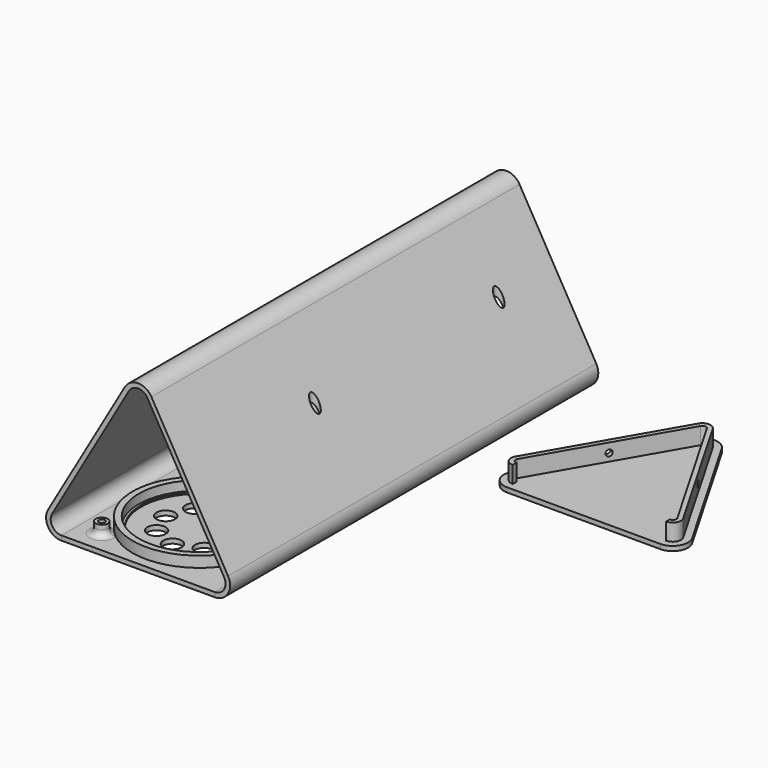
from build123d import *

# Parameters (mm, degrees)
PAD_DEPTH             = 150
SKETCH010_R           = 1.5
POCKET002_DEPTH       = 0.001
POCKET002_DEPTH_BACK  = 54.30227
SKETCH003_W           = 50
SKETCH003_H           = 80
SKETCH003_W_2         = 25
SKETCH003_H_2         = 72
PAD001_DEPTH          = 1.5
SKETCH001_R           = 2
SKETCH001_R_2         = 1
PAD002_DEPTH          = 6
FILLET_R              = 2
SKETCH007_W           = 50
SKETCH007_H           = 50
PAD003_DEPTH          = 1.5
SKETCH006_R           = 21.8
SKETCH006_R_2         = 19.8
PAD004_DEPTH          = 5
SKETCH005_R           = 3
POCKET001_DEPTH       = 141.775469
POCKET001_DEPTH_BACK  = 146.775469
POLARPATTERN_COUNT    = 8
SKETCH004_R           = 20
SKETCH004_R_2         = 19
PAD005_DEPTH          = 2
SKETCH015_R           = 2
SKETCH015_R_2         = 1
PAD009_DEPTH          = 5
FILLET001_R           = 2
SKETCH011_W           = 50
SKETCH011_H           = 20
SKETCH011_R           = 3
SKETCH011_R_2         = 3.5
PAD006_DEPTH          = 1.5
PAD007_DEPTH          = 7
PAD008_DEPTH          = 1.5
SKETCH014_R           = 1
POCKET_DEPTH          = 180.556145
POLARPATTERN001_COUNT = 3


with BuildPart() as housing:
    # Sketch → Pad (new body)
    with BuildSketch(Plane.XZ):
        with BuildLine():
            Line((29.330127, 7.5), (4.330127, 50.80127))
            ThreePointArc((4.330127, 50.80127), (0, 53.30127), (-4.330127, 50.80127))
            Line((-4.330127, 50.80127), (-29.330127, 7.5))
            ThreePointArc((-29.330127, 7.5), (-29.330127, 2.5), (-25, 0))
            Line((-25, 1.5), (-25, 0))
            ThreePointArc((-28.031089, 6.75), (-28.031089, 3.25), (-25, 1.5))
            Line((-3.031089, 50.05127), (-28.031089, 6.75))
            ThreePointArc((3.031089, 50.05127), (0, 51.80127), (-3.031089, 50.05127))
            Line((28.031089, 6.75), (3.031089, 50.05127))
            ThreePointArc((25, 1.5), (28.031089, 3.25), (28.031089, 6.75))
            Line((25, 1.5), (25, 0))
            ThreePointArc((25, 0), (29.330127, 2.5), (29.330127, 7.5))
        make_face()
    extrude(amount=PAD_DEPTH)

    # Sketch010 → Pocket002 (cut, two sides)
    with BuildSketch(Plane(origin=(0, -60, -1), x_dir=(1, 0, 0), z_dir=(0, 0, 1))) as pocket002_sk:
        with Locations((-15.59, 37.44)):
            Circle(SKETCH010_R)
        with Locations((-15.59, -37.44)):
            Circle(SKETCH010_R)
        with Locations((15.59, -37.44)):
            Circle(SKETCH010_R)
        with Locations((15.59, 37.44)):
            Circle(SKETCH010_R)
    extrude(amount=-POCKET002_DEPTH, mode=Mode.SUBTRACT)
    extrude(pocket002_sk.sketch, amount=POCKET002_DEPTH_BACK, mode=Mode.SUBTRACT)


with BuildPart() as lcd:
    # Sketch003 → Pad001 (new body)
    with BuildSketch(Plane.XY):
        Rectangle(SKETCH003_W, SKETCH003_H)
        Rectangle(SKETCH003_W_2, SKETCH003_H_2, mode=Mode.SUBTRACT)
    extrude(amount=PAD001_DEPTH)

    # Sketch001 → Pad002 (join)
    with BuildSketch(Plane.XY):
        with Locations((-15.59, 37.44)):
            Circle(SKETCH001_R)
        with Locations((-15.59, 37.44)):
            Circle(SKETCH001_R_2, mode=Mode.SUBTRACT)
        with Locations((-15.59, -37.44)):
            Circle(SKETCH001_R)
        with Locations((-15.59, -37.44)):
            Circle(SKETCH001_R_2, mode=Mode.SUBTRACT)
        with Locations((15.59, -37.44)):
            Circle(SKETCH001_R)
        with Locations((15.59, -37.44)):
            Circle(SKETCH001_R_2, mode=Mode.SUBTRACT)
        with Locations((15.59, 37.44)):
            Circle(SKETCH001_R)
        with Locations((15.59, 37.44)):
            Circle(SKETCH001_R_2, mode=Mode.SUBTRACT)
    extrude(amount=PAD002_DEPTH)

    # Fillet
    fillet_edges = [lcd.edges().sort_by_distance(p)[0] for p in [
        (-17.59, 37.44, 1.5),
        (13.59, 37.44, 1.5),
        (-17.59, -37.44, 1.5),
        (13.59, -37.44, 1.5),
    ]]
    fillet(fillet_edges, radius=FILLET_R)


with BuildPart() as lcd_1:
    # Body001 placement: moved
    add(lcd.part.moved(Location((0, -60, 0))))


with BuildPart() as speaker:
    # Sketch007 → Pad003 (new body)
    with BuildSketch(Plane.XY):
        Rectangle(SKETCH007_W, SKETCH007_H)
    extrude(amount=PAD003_DEPTH)

    # Sketch006 → Pad004 (join)
    with BuildSketch(Plane.XY):
        Circle(SKETCH006_R)
        Circle(SKETCH006_R_2, mode=Mode.SUBTRACT)
    extrude(amount=PAD004_DEPTH)

    # Sketch005 → Pocket001 (cut, two sides)
    with BuildSketch(Plane.XY) as pocket001_sk:
        with Locations((0, 11)):
            Circle(SKETCH005_R)
    pocket001 = extrude(amount=-POCKET001_DEPTH, mode=Mode.SUBTRACT) + extrude(pocket001_sk.sketch, amount=POCKET001_DEPTH_BACK, mode=Mode.SUBTRACT)

    # PolarPattern: Pocket001 ×8 about axis
    polarpattern_axis = Axis((0, 0, 0), (0, 0, 1))
    for i in range(1, POLARPATTERN_COUNT):
        add(pocket001.rotate(polarpattern_axis, i * 360 / POLARPATTERN_COUNT), mode=Mode.SUBTRACT)

    # Sketch004 → Pad005 (join)
    with BuildSketch(Plane.XY):
        Circle(SKETCH004_R)
        Circle(SKETCH004_R_2, mode=Mode.SUBTRACT)
    extrude(amount=PAD005_DEPTH)

    # Sketch015 → Pad009 (join)
    with BuildSketch(Plane.XY):
        with Locations((-17.67767, -17.67767)):
            Circle(SKETCH015_R)
        with Locations((-17.67767, -17.67767)):
            Circle(SKETCH015_R_2, mode=Mode.SUBTRACT)
        with Locations((17.67767, 17.67767)):
            Circle(SKETCH015_R)
        with Locations((17.67767, 17.67767)):
            Circle(SKETCH015_R_2, mode=Mode.SUBTRACT)
    extrude(amount=PAD009_DEPTH)

    # Fillet001
    fillet001_edges = [speaker.edges().sort_by_distance(p)[0] for p in [
        (-19.67767, -17.67767, 1.5),
        (15.67767, 17.67767, 1.5),
    ]]
    fillet(fillet001_edges, radius=FILLET001_R)


with BuildPart() as speaker_1:
    # Body002 placement: moved
    add(speaker.part.moved(Location((0, -125, 0))))


with BuildPart() as button:
    # Sketch011 → Pad006 (new body)
    with BuildSketch(Plane.XY):
        Rectangle(SKETCH011_W, SKETCH011_H)
        with Locations((-12.5, 0)):
            Circle(SKETCH011_R, mode=Mode.SUBTRACT)
        with Locations((12.5, 0)):
            Circle(SKETCH011_R_2, mode=Mode.SUBTRACT)
    extrude(amount=PAD006_DEPTH)


with BuildPart() as button_1:
    # Body003 placement: moved
    add(button.part.moved(Location((0, -10, 0))))


with BuildPart() as caps:
    # Sketch012 → Pad007 (new body)
    with BuildSketch(Plane.XY):
        with BuildLine():
            Line((27.338269, -13.083757), (2.338269, 30.217513))
            ThreePointArc((2.338269, 30.217513), (0, 31.567513), (-2.338269, 30.217513))
            Line((-2.338269, 30.217513), (-27.338269, -13.083757))
            ThreePointArc((-27.338269, -13.083757), (-27.338269, -15.783757), (-25, -17.133757))
            Line((-25, -15.633757), (-25, -17.133757))
            ThreePointArc((-26.03923, -13.833757), (-26.03923, -15.033757), (-25, -15.633757))
            Line((-1.03923, 29.467513), (-26.03923, -13.833757))
            ThreePointArc((1.03923, 29.467513), (0, 30.067513), (-1.03923, 29.467513))
            Line((26.03923, -13.833757), (1.03923, 29.467513))
            ThreePointArc((25, -15.633757), (26.03923, -15.033757), (26.03923, -13.833757))
            Line((25, -15.633757), (25, -17.133757))
            ThreePointArc((25, -17.133757), (27.338269, -15.783757), (27.338269, -13.083757))
        make_face()
    extrude(amount=PAD007_DEPTH)

    # Sketch013 → Pad008 (join)
    with BuildSketch(Plane.XY):
        with BuildLine():
            Line((29.330127, -11.933757), (4.330127, 31.367513))
            ThreePointArc((4.330127, 31.367513), (0, 33.867513), (-4.330127, 31.367513))
            Line((-4.330127, 31.367513), (-29.330127, -11.933757))
            ThreePointArc((-29.330127, -11.933757), (-29.330127, -16.933757), (-25, -19.433757))
            Line((25, -19.433757), (-25, -19.433757))
            ThreePointArc((25, -19.433757), (29.330127, -16.933757), (29.330127, -11.933757))
        make_face()
    extrude(amount=PAD008_DEPTH)

    # Sketch014 → Pocket (cut, through all)
    with BuildSketch(Plane.XZ):
        with Locations((0, 4)):
            Circle(SKETCH014_R)
    pocket = extrude(amount=POCKET_DEPTH, mode=Mode.SUBTRACT)

    # PolarPattern001: Pocket ×3 about axis
    polarpattern001_axis = Axis((0, 0, 0), (0, 0, 1))
    for i in range(1, POLARPATTERN001_COUNT):
        add(pocket.rotate(polarpattern001_axis, i * 360 / POLARPATTERN001_COUNT), mode=Mode.SUBTRACT)


with BuildPart() as caps_1:
    # Body004 placement: moved
    add(caps.part.moved(Location((72, -39, 0))))


solid = Compound([housing.part, lcd_1.part, speaker_1.part, button_1.part, caps_1.part])
